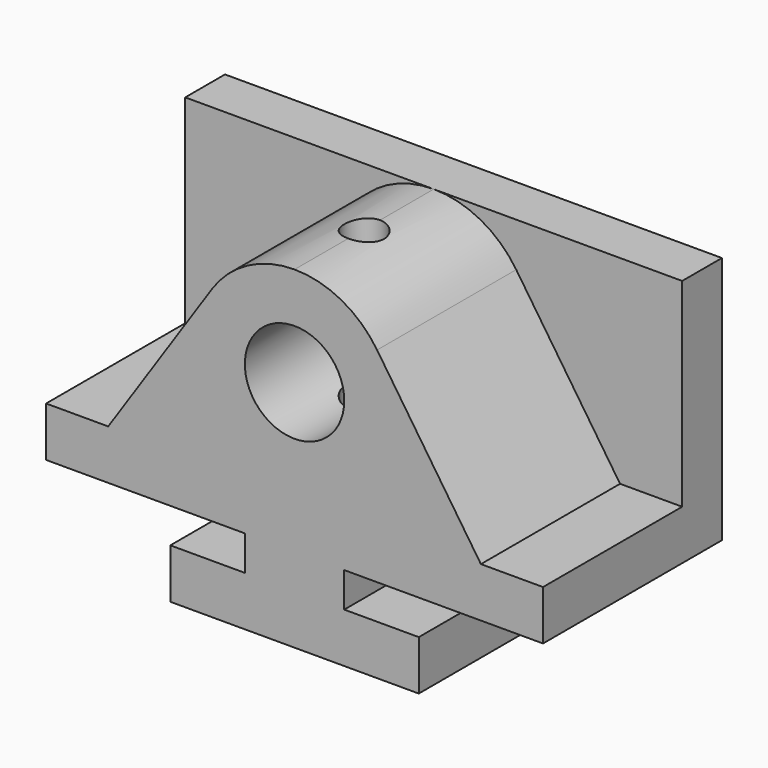
from build123d import *

# Parameters (mm, degrees)
F1_DEPTH = 57.15
F3_DEPTH = 44.45
F4_DEPTH = 44.45
F2_R     = 12.7
F5_DEPTH = 57.151
F6_R     = 5.08
F7_DEPTH = 85.091


with BuildPart() as f1:
    # F0 (on Front) → F1 (new body)
    with BuildSketch(Plane.XZ):
        Polygon((12.7, 0), (63.5, 0), (63.5, 63.5), (-63.5, 63.5), (-63.5, 0), (-12.7, 0), (-12.7, -8.89), (-31.75, -8.89), (-31.75, -21.59), (31.75, -21.59), (31.75, -8.89), (12.7, -8.89), align=None)
    extrude(amount=-F1_DEPTH)

    # F2 (on face) → F3 (cut)
    with BuildSketch(Plane.XZ):
        with BuildLine():
            Line((63.5, 63.5), (0, 63.5))
            ThreePointArc((0, 63.5), (11.952941, 60.511765), (21.093426, 52.250173))
            Line((21.093426, 52.250173), (47.625, 12.7))
            Line((47.625, 12.7), (63.5, 12.7))
            Line((63.5, 12.7), (63.5, 63.5))
        make_face()
    extrude(amount=-F3_DEPTH, mode=Mode.SUBTRACT)

    # F2 (on face) → F4 (cut)
    with BuildSketch(Plane.XZ):
        with BuildLine():
            Line((-47.625, 12.7), (-21.093426, 52.250173))
            ThreePointArc((-21.093426, 52.250173), (-11.952941, 60.511765), (0, 63.5))
            Line((0, 63.5), (-63.5, 63.5))
            Line((-63.5, 63.5), (-63.5, 12.7))
            Line((-63.5, 12.7), (-47.625, 12.7))
        make_face()
    extrude(amount=-F4_DEPTH, mode=Mode.SUBTRACT)

    # F2 (on face) → F5 (cut, through all)
    with BuildSketch(Plane.XZ):
        with Locations((0, 38.1)):
            Circle(F2_R)
    extrude(amount=-F5_DEPTH, mode=Mode.SUBTRACT)

    # F6 (on face) → F7 (cut, through all)
    with BuildSketch(Plane.XY.offset(63.5)):
        with Locations((0, 22.225)):
            Circle(F6_R)
    extrude(amount=-F7_DEPTH, mode=Mode.SUBTRACT)


solid = f1.part
